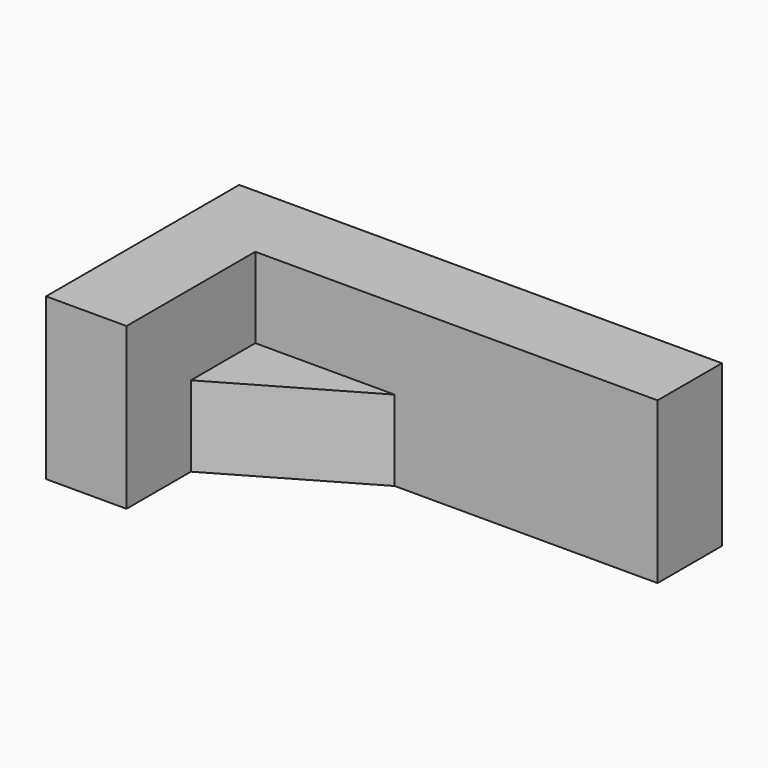
from build123d import *

# Parameters (mm, degrees)
F1_DEPTH = 50.8
F3_DEPTH = 25.4


with BuildPart() as f1:
    # F0 (on Top) → F1 (new body)
    with BuildSketch(Plane.XY):
        Polygon((0, 76.2), (0, 0), (25.4, 0), (25.4, 50.8), (152.4, 50.8), (152.4, 76.2), align=None)
    extrude(amount=-F1_DEPTH)


with BuildPart() as f3:
    # F2 (on face) → F3 (new body)
    with BuildSketch(Plane(origin=(0, 0, -50.8), x_dir=(1, 0, 0), z_dir=(0, 0, -1))):
        Polygon((69.394091, -50.8), (25.4, -25.4), (25.4, -50.8), align=None)
    extrude(amount=-F3_DEPTH)


solid = Compound([f1.part, f3.part])
